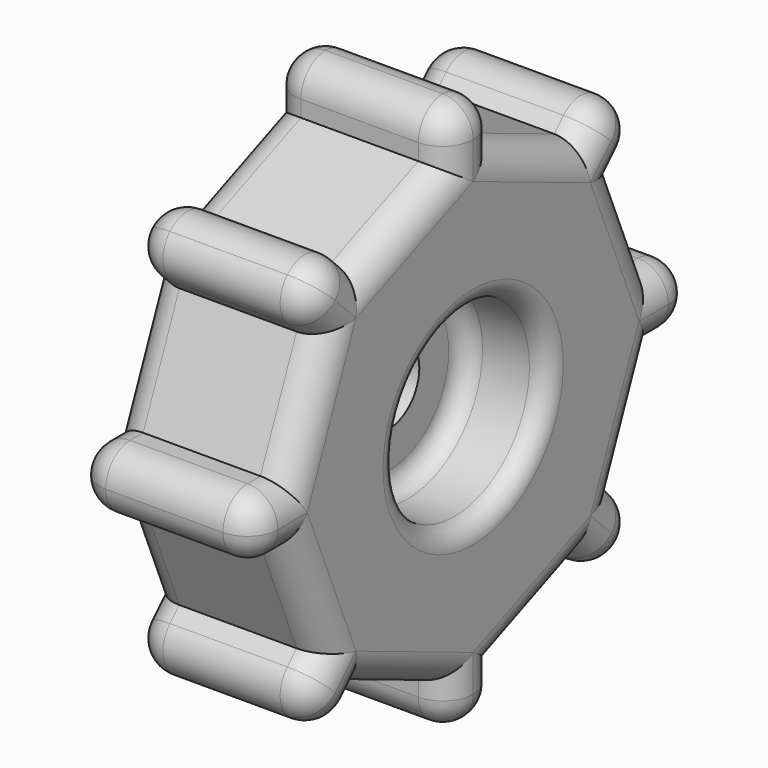
from build123d import *

# Parameters (mm, degrees)
PAD003_DEPTH    = 19
FILLET007_R     = 3.249
SKETCH008_R     = 10
PAD004_DEPTH    = 1.5
SKETCH009_R     = 4.08
POCKET004_DEPTH = 12
SKETCH010_R     = 10
POCKET005_DEPTH = 9
FILLET008_R     = 1
FILLET009_R     = 2


with BuildPart() as part:
    # Sketch007 → Pad003 (new body)
    with BuildSketch(Plane.YZ):
        Polygon((-24.263456, 3.25), (-29.263456, 3.25), (-29.263456, -3.25), (-24.263456, -3.25), (-19.454951, -14.858757), (-22.990485, -18.394291), (-18.394291, -22.990485), (-14.858757, -19.454951), (-3.25, -24.263456), (-3.25, -29.263456), (3.25, -29.263456), (3.25, -24.263456), (14.858757, -19.454951), (18.394291, -22.990485), (22.990485, -18.394291), (19.454951, -14.858757), (24.263456, -3.25), (29.263456, -3.25), (29.263456, 3.25), (24.263456, 3.25), (19.454951, 14.858757), (22.990485, 18.394291), (18.394291, 22.990485), (14.858757, 19.454951), (3.25, 24.263456), (3.25, 29.263456), (-3.25, 29.263456), (-3.25, 24.263456), (-14.858757, 19.454951), (-18.394291, 22.990485), (-22.990485, 18.394291), (-19.454951, 14.858757), align=None)
    extrude(amount=PAD003_DEPTH)

    # Fillet007
    fillet007_edges = [part.edges().sort_by_distance(p)[0] for p in [
        (19, -16.626524, 21.222718),
        (19, -20.692388, 20.692388),
        (19, -21.222718, 16.626524),
        (19, -21.859204, 9.054379),
        (19, -26.763456, 3.25),
        (19, -29.263456, 0),
        (19, -26.763456, -3.25),
        (19, -21.859204, -9.054379),
        (19, -21.222718, -16.626524),
        (19, -20.692388, -20.692388),
        (19, -16.626524, -21.222718),
        (19, -9.054379, -21.859204),
        (19, -3.25, -26.763456),
        (19, 0, -29.263456),
        (19, 3.25, -26.763456),
        (19, 9.054379, -21.859204),
        (19, 16.626524, -21.222718),
        (19, 20.692388, -20.692388),
        (19, 21.222718, -16.626524),
        (19, 21.859204, -9.054379),
        (19, 26.763456, -3.25),
        (19, 29.263456, 0),
        (19, 26.763456, 3.25),
        (19, 21.859204, 9.054379),
        (19, 21.222718, 16.626524),
        (19, 20.692388, 20.692388),
        (19, 16.626524, 21.222718),
        (19, 9.054379, 21.859204),
        (19, 3.25, 26.763456),
        (19, 0, 29.263456),
        (19, -3.25, 26.763456),
        (19, -9.054379, 21.859204),
        (0, -16.626524, 21.222718),
        (0, -20.692388, 20.692388),
        (0, -21.222718, 16.626524),
        (0, -21.859204, 9.054379),
        (0, -26.763456, 3.25),
        (0, -29.263456, 0),
        (0, -26.763456, -3.25),
        (0, -21.859204, -9.054379),
        (0, -21.222718, -16.626524),
        (0, -20.692388, -20.692388),
        (0, -16.626524, -21.222718),
        (0, -9.054379, -21.859204),
        (0, -3.25, -26.763456),
        (0, 0, -29.263456),
        (0, 3.25, -26.763456),
        (0, 9.054379, -21.859204),
        (0, 16.626524, -21.222718),
        (0, 20.692388, -20.692388),
        (0, 21.222718, -16.626524),
        (0, 21.859204, -9.054379),
        (0, 26.763456, -3.25),
        (0, 29.263456, 0),
        (0, 26.763456, 3.25),
        (0, 21.859204, 9.054379),
        (0, 21.222718, 16.626524),
        (0, 20.692388, 20.692388),
        (0, 16.626524, 21.222718),
        (0, 9.054379, 21.859204),
        (0, 3.25, 26.763456),
        (0, 0, 29.263456),
        (0, -3.25, 26.763456),
        (0, -9.054379, 21.859204),
        (9.5, 29.263456, -3.25),
        (9.5, 29.263456, 3.25),
        (9.5, 18.394291, 22.990485),
        (9.5, 22.990485, 18.394291),
        (9.5, 18.394291, -22.990485),
        (9.5, 22.990485, -18.394291),
        (9.5, -3.25, -29.263456),
        (9.5, 3.25, -29.263456),
        (9.5, -22.990485, -18.394291),
        (9.5, -18.394291, -22.990485),
        (9.5, -29.263456, 3.25),
        (9.5, -29.263456, -3.25),
        (9.5, -18.394291, 22.990485),
        (9.5, -22.990485, 18.394291),
        (9.5, -3.25, 29.263456),
        (9.5, 3.25, 29.263456),
    ]]
    fillet(fillet007_edges, radius=FILLET007_R)

    # Sketch008 (on Face9 of Fillet007) → Pad004 (join)
    with BuildSketch(Plane(origin=(0, 0, 0), x_dir=(0, 1, 0), z_dir=(-1, 0, 0))):
        Circle(SKETCH008_R)
    extrude(amount=PAD004_DEPTH)

    # Sketch009 (on Face121 of Pad004) → Pocket004 (cut)
    with BuildSketch(Plane(origin=(-1.5, 0, 0), x_dir=(0, 1, 0), z_dir=(-1, 0, 0))):
        Circle(SKETCH009_R)
    extrude(amount=-POCKET004_DEPTH, mode=Mode.SUBTRACT)

    # Sketch010 (on Face11 of Pocket004) → Pocket005 (cut)
    with BuildSketch(Plane.YZ.offset(19)):
        Circle(SKETCH010_R)
    extrude(amount=-POCKET005_DEPTH, mode=Mode.SUBTRACT)

    # Fillet008
    fillet008_edges = [part.edges().sort_by_distance(p)[0] for p in [
        (0, -10, 0),
    ]]
    fillet(fillet008_edges, radius=FILLET008_R)

    # Fillet009
    fillet009_edges = [part.edges().sort_by_distance(p)[0] for p in [
        (10, -10, 0),
        (19, -10, 0),
    ]]
    fillet(fillet009_edges, radius=FILLET009_R)


solid = part.part
